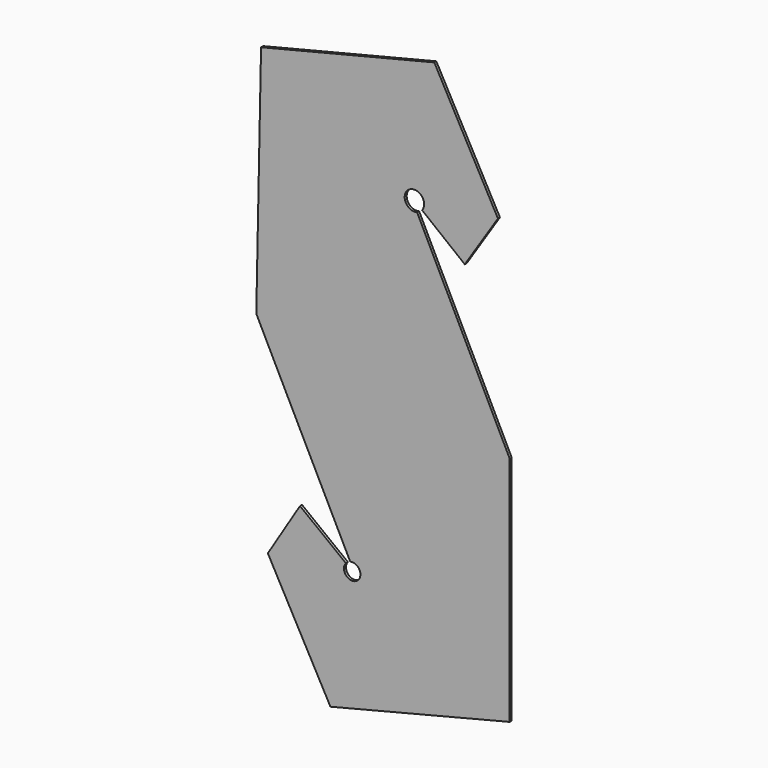
from build123d import *

# Parameters (mm, degrees)
F1_DEPTH = 0.6


with BuildPart() as f1:
    # F0 (on Front) → F1 (new body)
    with BuildSketch(Plane.XZ):
        with BuildLine():
            Line((-25.485562, 71.361825), (-66.801734, 61.113477))
            Line((-66.801734, 61.113477), (-67.904737, 6.629639))
            Line((-67.904737, 6.629639), (-9.025994, -2.930532))
            Line((-9.025994, -2.930532), (-9.372429, -2.231689))
            Line((-9.372429, -2.231689), (-29.59533, 38.562823))
            ThreePointArc((-29.59533, 38.562823), (-31.539924, 42.710382), (-28.384709, 39.389492))
            Line((-28.384709, 39.389492), (-18.222952, 31.336777))
            Line((-18.222952, 31.336777), (-10.314779, 43.521821))
            Line((-10.314779, 43.521821), (-25.485562, 71.361825))
        make_face()
        Polygon((-9.025994, -2.930532), (-67.904737, 6.629639), (-67.923154, 5.719927), (-8.346913, -4.300405), align=None)
        Polygon((-8.346913, -4.300405), (-67.923154, 5.719927), (-67.94157, 4.810214), (-7.505301, -5.99814), align=None)
        Polygon((-7.505301, -5.99814), (-67.94157, 4.810214), (-67.197253, 3.322065), (-7.505301, -6.950844), align=None)
        Polygon((-7.505301, -6.950844), (-67.197253, 3.322065), (-66.535123, 1.998238), (-7.505301, -8.160719), align=None)
        Polygon((-7.505301, -8.160719), (-66.535123, 1.998238), (-65.95441, 0.83719), (-7.505301, -9.583006), align=None)
        with BuildLine():
            Line((-7.505301, -9.583006), (-65.95441, 0.83719))
            Line((-65.95441, 0.83719), (-45.54529, -39.967726))
            ThreePointArc((-45.54529, -39.967726), (-44.018635, -43.524925), (-46.579982, -40.622539))
            Line((-46.579982, -40.622539), (-57.517279, -32.170705))
            Line((-57.517279, -32.170705), (-65.185875, -44.597834))
            Line((-65.185875, -44.597834), (-50.259132, -71.953654))
            Line((-50.259132, -71.953654), (-7.505301, -61.244757))
            Line((-7.505301, -61.244757), (-7.505301, -9.583006))
        make_face()
    extrude(amount=F1_DEPTH)


solid = f1.part
